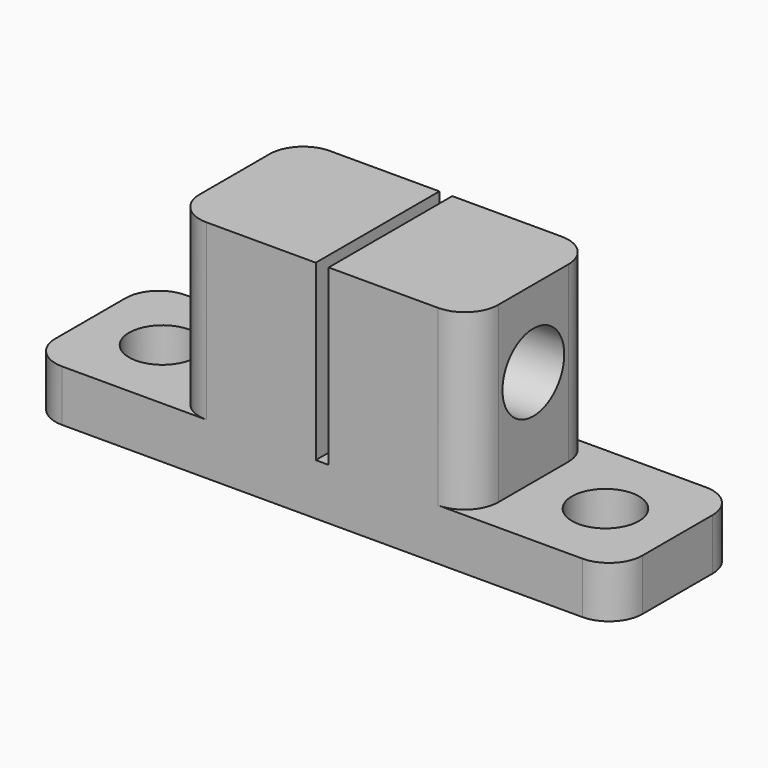
from build123d import *

# Parameters (mm, degrees)
F3_W      = 45.6
F3_H      = 12
F3_R      = 2.6
F4_DEPTH  = 4
F5_W      = 23.2
F5_H      = 12
F6_DEPTH  = 13.5
F7_R      = 3
F8_DEPTH  = 23.2
F9_W      = 1
F9_H      = 12
F10_DEPTH = 13.5
F11_R     = 2.6


with BuildPart() as f4:
    # F3 (on Top) → F4 (new body)
    with BuildSketch(Plane.XY):
        Rectangle(F3_W, F3_H)
        with Locations((-17.2, 0)):
            Circle(F3_R, mode=Mode.SUBTRACT)
        with Locations((17.2, 0)):
            Circle(F3_R, mode=Mode.SUBTRACT)
    extrude(amount=F4_DEPTH)

    # F5 (on face) → F6 (join)
    with BuildSketch(Plane.XY.offset(4)):
        Rectangle(F5_W, F5_H)
    extrude(amount=F6_DEPTH)

    # F7 (on face) → F8 (cut, through all)
    with BuildSketch(Plane.YZ.offset(11.6)):
        with Locations((0, 11.5)):
            Circle(F7_R)
    extrude(amount=-F8_DEPTH, mode=Mode.SUBTRACT)

    # F9 (on face) → F10 (cut, through all)
    with BuildSketch(Plane.XY.offset(17.5)):
        Rectangle(F9_W, F9_H)
    extrude(amount=-F10_DEPTH, mode=Mode.SUBTRACT)

    # F11
    f11_edges = [f4.edges().sort_by_distance(p)[0] for p in [
        (-22.8, -6, 2),
        (-22.8, 6, 2),
        (22.8, -6, 2),
        (22.8, 6, 2),
        (-11.6, 6, 10.75),
        (-11.6, -6, 10.75),
        (11.6, 6, 10.75),
        (11.6, -6, 10.75),
    ]]
    fillet(f11_edges, radius=F11_R)


solid = f4.part
